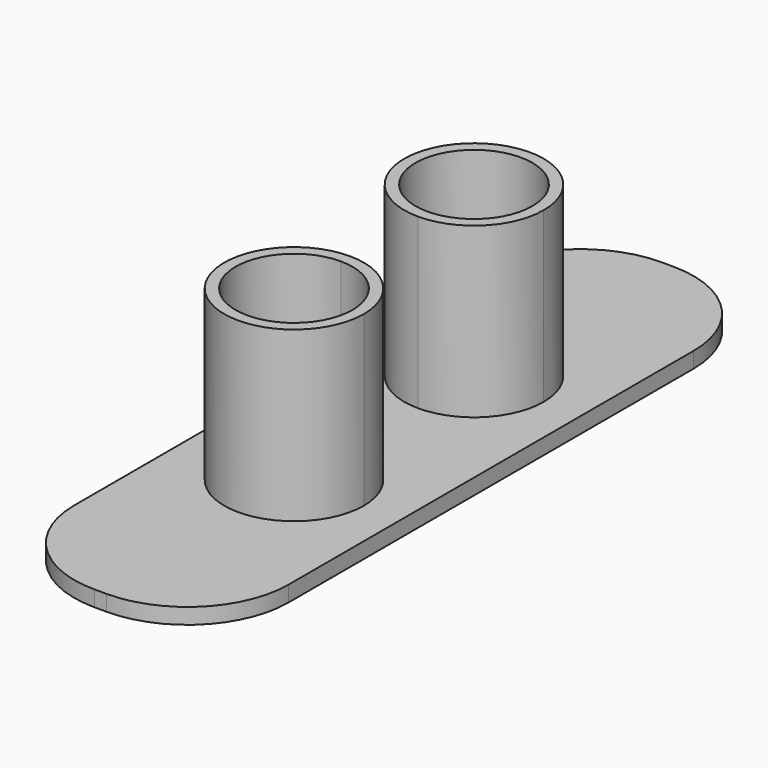
from build123d import *

# Parameters (mm, degrees)
F1_DEPTH = 1.778
F3_DEPTH = 19.05


with BuildPart() as f1:
    # F0 (on Top) → F1 (new body)
    with BuildSketch(Plane.XY):
        with BuildLine():
            Line((-0.6731, -40.005), (0.6731, -40.005))
            ThreePointArc((0.6731, -40.005), (8.755331, -36.657231), (12.1031, -28.575))
            Line((12.1031, -28.575), (12.1031, 28.575))
            ThreePointArc((12.1031, 28.575), (8.755331, 36.657231), (0.6731, 40.005))
            Line((0.6731, 40.005), (-0.6731, 40.005))
            ThreePointArc((-0.6731, 40.005), (-8.755331, 36.657231), (-12.1031, 28.575))
            Line((-12.1031, 28.575), (-12.1031, -28.575))
            ThreePointArc((-12.1031, -28.575), (-8.755331, -36.657231), (-0.6731, -40.005))
        make_face()
    extrude(amount=F1_DEPTH)

    # F2 (on face) → F3 (join)
    with BuildSketch(Plane.XY.offset(1.778)):
        with BuildLine():
            ThreePointArc((6.604, 12.7), (-4.669733, 17.369733), (0, 6.096))
            ThreePointArc((0, 6.096), (4.669733, 8.030267), (6.604, 12.7))
        make_face()
        with BuildLine():
            ThreePointArc((7.874, 12.7), (-5.567759, 18.267759), (0, 4.826))
            ThreePointArc((0, 4.826), (5.567759, 7.132241), (7.874, 12.7))
        make_face()
        with BuildLine():
            ThreePointArc((6.604, 12.7), (4.669733, 8.030267), (0, 6.096))
            ThreePointArc((0, 6.096), (-4.669733, 17.369733), (6.604, 12.7))
        make_face(mode=Mode.SUBTRACT)
        with BuildLine():
            ThreePointArc((6.604, -12.7), (4.669733, -8.030267), (0, -6.096))
            ThreePointArc((0, -6.096), (-4.669733, -17.369733), (6.604, -12.7))
        make_face()
        with BuildLine():
            ThreePointArc((7.874, -12.7), (5.567759, -7.132241), (0, -4.826))
            ThreePointArc((0, -4.826), (-5.567759, -18.267759), (7.874, -12.7))
        make_face()
        with BuildLine():
            ThreePointArc((6.604, -12.7), (-4.669733, -17.369733), (0, -6.096))
            ThreePointArc((0, -6.096), (4.669733, -8.030267), (6.604, -12.7))
        make_face(mode=Mode.SUBTRACT)
    extrude(amount=F3_DEPTH)


solid = f1.part
